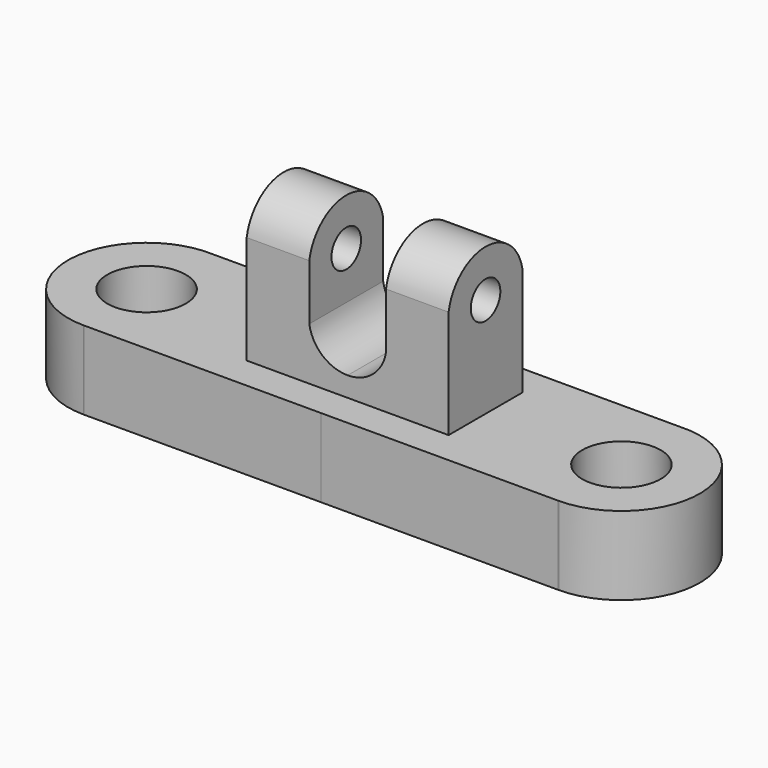
from build123d import *

# Parameters (mm, degrees)
F0_R     = 6.35
F1_DEPTH = 12.7
F0_W     = 16.3278355569
F0_H     = 14.9416262284
F2_DEPTH = 38.1
F4_DEPTH = 25.4
F6_DEPTH = 25.4
F5_R     = 2.9883408706
F7_DEPTH = 25.4


with BuildPart() as f1:
    # F0 (on Top) → F1 (new body)
    with BuildSketch(Plane.XY):
        with BuildLine():
            Line((0.3017354131, 12.6927690867), (-37.4940995503, 12.6855384058))
            ThreePointArc((-37.4940995503, 12.6855384058), (-50.7954163284, 0.341180667), (-38.1763124432, -12.6997707228))
            Line((-38.1763124432, -12.6997707228), (-38.0237639047, -12.6997711813))
            Line((-38.0237639047, -12.6997711813), (0.3017354131, -12.6998863831))
            Line((0.3017354131, -12.6998863831), (0.3017354131, -7.3503162712))
            Line((0.3017354131, -7.3503162712), (-16.0261001438, -7.3503162712))
            Line((-16.0261001438, -7.3503162712), (-16.0261001438, 7.5913099572))
            Line((-16.0261001438, 7.5913099572), (0.3017354131, 7.5913099572))
            Line((0.3017354131, 7.5913099572), (0.3017354131, 12.6927690867))
        make_face()
        with Locations((-38.1, 0)):
            Circle(F0_R, mode=Mode.SUBTRACT)
    extrude(amount=F1_DEPTH)

    # F0 (on Top) → F2 (join)
    with BuildSketch(Plane.XY):
        with Locations((-7.8621823653, 0.120496843)):
            Rectangle(F0_W, F0_H)
    extrude(amount=F2_DEPTH)

    # F3 (on face) → F4 (cut)
    with BuildSketch(Plane.XZ.offset(7.3503162712)):
        with BuildLine():
            Line((-5.9043527581, 38.1), (-5.9043527581, 21.2074704468))
            ThreePointArc((-5.9043527581, 21.2074704468), (-3.7853007654, 17.4047273656), (0.3017354131, 15.9056037664))
            Line((0.3017354131, 15.9056037664), (0.3017354131, 38.1))
            Line((0.3017354131, 38.1), (-5.9043527581, 38.1))
        make_face()
    extrude(amount=-F4_DEPTH, mode=Mode.SUBTRACT)

    # F5 (on face) → F6 (cut)
    with BuildSketch(Plane(origin=(-16.0261001438, 0, 0), x_dir=(0, -1, 0), z_dir=(-1, 0, 0))):
        with BuildLine():
            ThreePointArc((-7.5913099572, 30.2173364908), (-0.120496843, 36.4995504426), (7.3503162712, 30.2173364908))
            Line((7.3503162712, 30.2173364908), (7.3503162712, 38.1))
            Line((7.3503162712, 38.1), (-7.5913099572, 38.1))
            Line((-7.5913099572, 38.1), (-7.5913099572, 30.2173364908))
        make_face()
    extrude(amount=-F6_DEPTH, mode=Mode.SUBTRACT)

    # F5 (on face) → F7 (cut)
    with BuildSketch(Plane(origin=(-16.0261001438, 0, 0), x_dir=(0, -1, 0), z_dir=(-1, 0, 0))):
        with Locations((-0.120496843, 28.9162954426)):
            Circle(F5_R)
    extrude(amount=-F7_DEPTH, mode=Mode.SUBTRACT)

    # F8: F1 across face


with BuildPart() as f1_1:
    add(f1.part)
    add(f1.part.mirror(Plane(origin=(0.3017354131, 0.0124838458, 7.3784331219), x_dir=(0, 1, 0), z_dir=(1, 0, 0))))


solid = f1_1.part
